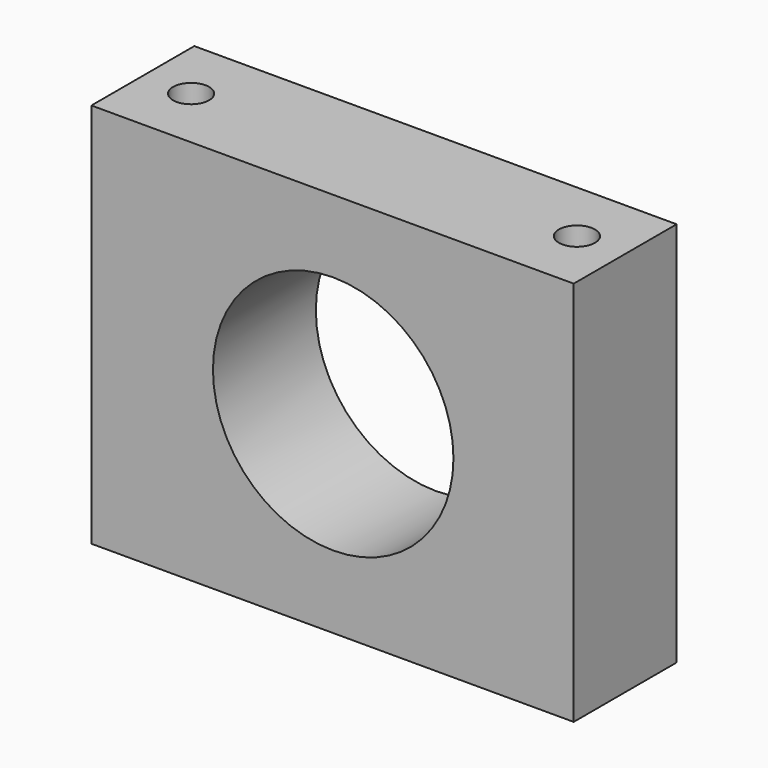
from build123d import *

# Parameters (mm, degrees)
F0_W     = 95.25
F0_H     = 76.2
F1_DEPTH = 25.4
F2_R     = 23.749
F3_DEPTH = 25.4
F4_R     = 3.5687
F5_DEPTH = 76.2


with BuildPart() as f1:
    # F0 (on Front) → F1 (new body)
    with BuildSketch(Plane.XZ):
        with Locations((0, -19.991251)):
            Rectangle(F0_W, F0_H)
    extrude(amount=F1_DEPTH)

    # F2 (on face) → F3 (cut, through all)
    with BuildSketch(Plane(origin=(0, 0, 0), x_dir=(-1, 0, 0), z_dir=(0, 1, 0))):
        with Locations((-0.127, -19.991251)):
            Circle(F2_R)
    extrude(amount=-F3_DEPTH, mode=Mode.SUBTRACT)

    # F4 (on face) → F5 (cut, through all)
    with BuildSketch(Plane.XY.offset(18.108749)):
        with Locations((-38.1, -12.7)):
            Circle(F4_R)
        with Locations((38.1, -12.7)):
            Circle(F4_R)
    extrude(amount=-F5_DEPTH, mode=Mode.SUBTRACT)


solid = f1.part
